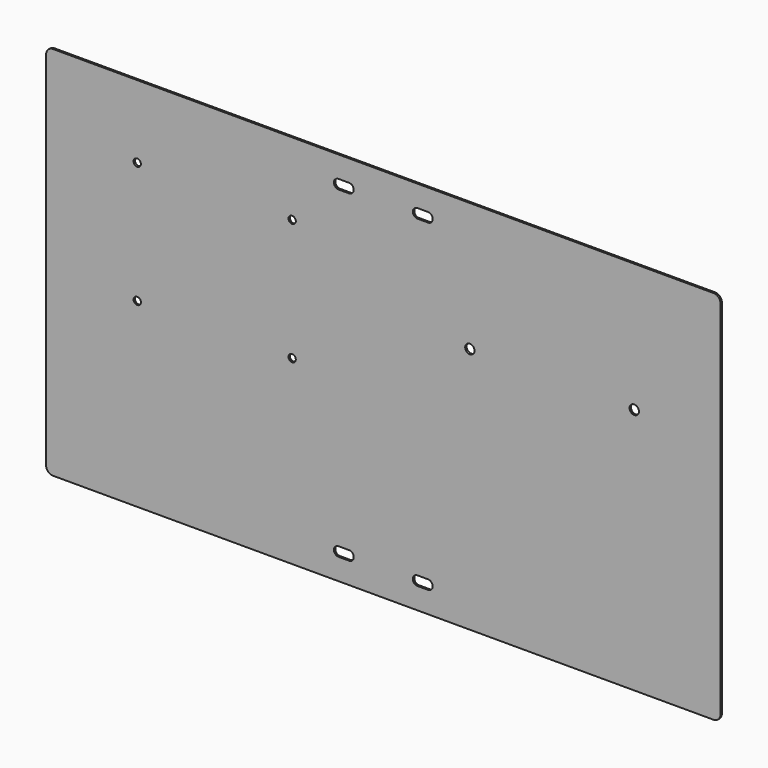
from build123d import *

# Parameters (mm, degrees)
F0_R     = 3.302
F0_R_2   = 4.2164
F1_DEPTH = 1.5875


with BuildPart() as f1:
    # F0 (on Front) → F1 (new body)
    with BuildSketch(Plane.XZ):
        with BuildLine():
            ThreePointArc((304.8, 163.4109), (302.940128, 167.901028), (298.45, 169.7609))
            Line((298.45, 169.7609), (-298.45, 169.7609))
            ThreePointArc((-298.45, 169.7609), (-302.940128, 167.901028), (-304.8, 163.4109))
            Line((-304.8, 163.4109), (-304.8, -163.4109))
            ThreePointArc((-304.8, -163.4109), (-302.940128, -167.901028), (-298.45, -169.7609))
            Line((-298.45, -169.7609), (298.45, -169.7609))
            ThreePointArc((298.45, -169.7609), (302.940128, -167.901028), (304.8, -163.4109))
            Line((304.8, -163.4109), (304.8, 163.4109))
        make_face()
        with BuildLine():
            Line((-30.9245, -150.3553), (-40.4495, -150.3553))
            ThreePointArc((-40.4495, -150.3553), (-44.6659, -146.1389), (-40.4495, -141.9225))
            Line((-40.4495, -141.9225), (-30.9245, -141.9225))
            ThreePointArc((-30.9245, -141.9225), (-26.7081, -146.1389), (-30.9245, -150.3553))
        make_face(mode=Mode.SUBTRACT)
        with Locations((-222.4024, -5.8801)):
            Circle(F0_R, mode=Mode.SUBTRACT)
        with Locations((-82.3976, -5.8801)):
            Circle(F0_R, mode=Mode.SUBTRACT)
        with BuildLine():
            Line((40.4495, -150.3553), (30.9245, -150.3553))
            ThreePointArc((30.9245, -150.3553), (26.7081, -146.1389), (30.9245, -141.9225))
            Line((30.9245, -141.9225), (40.4495, -141.9225))
            ThreePointArc((40.4495, -141.9225), (44.6659, -146.1389), (40.4495, -150.3553))
        make_face(mode=Mode.SUBTRACT)
        with Locations((-222.4024, 104.1273)):
            Circle(F0_R, mode=Mode.SUBTRACT)
        with Locations((-82.3976, 104.1273)):
            Circle(F0_R, mode=Mode.SUBTRACT)
        with BuildLine():
            Line((-30.9245, 141.9225), (-40.4495, 141.9225))
            ThreePointArc((-40.4495, 141.9225), (-44.6659, 146.1389), (-40.4495, 150.3553))
            Line((-40.4495, 150.3553), (-30.9245, 150.3553))
            ThreePointArc((-30.9245, 150.3553), (-26.7081, 146.1389), (-30.9245, 141.9225))
        make_face(mode=Mode.SUBTRACT)
        with Locations((78.232, 53.594)):
            Circle(F0_R_2, mode=Mode.SUBTRACT)
        with Locations((226.822, 53.594)):
            Circle(F0_R_2, mode=Mode.SUBTRACT)
        with BuildLine():
            Line((40.4495, 141.9225), (30.9245, 141.9225))
            ThreePointArc((30.9245, 141.9225), (26.7081, 146.1389), (30.9245, 150.3553))
            Line((30.9245, 150.3553), (40.4495, 150.3553))
            ThreePointArc((40.4495, 150.3553), (44.6659, 146.1389), (40.4495, 141.9225))
        make_face(mode=Mode.SUBTRACT)
    extrude(amount=F1_DEPTH)


solid = f1.part
